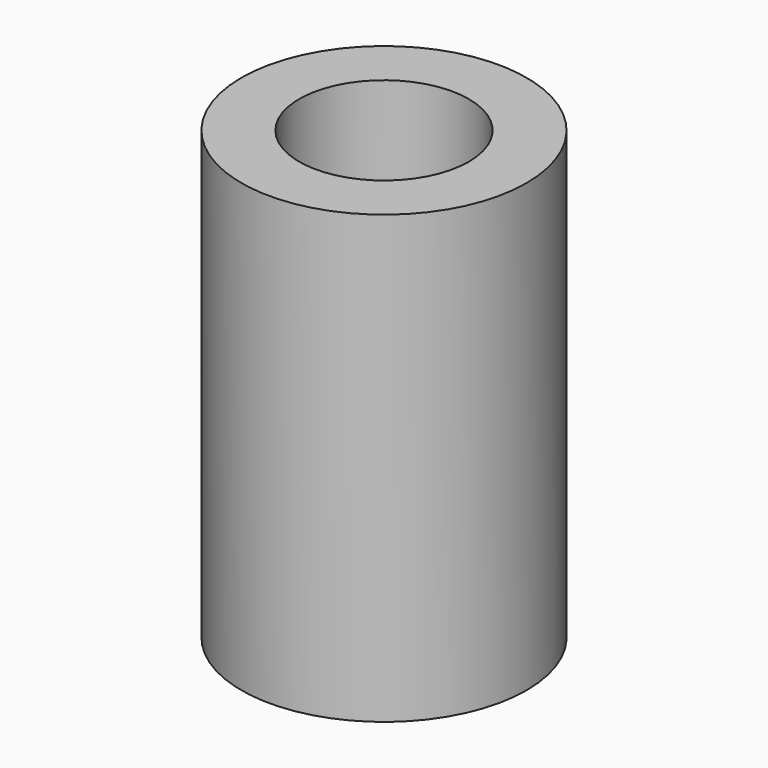
from build123d import *

# Parameters (mm, degrees)
SKETCH001_R   = 31.93
SKETCH001_R_2 = 19
PAD_DEPTH     = 100
SKETCH_R      = 31.93
PAD001_DEPTH  = 5


with BuildPart() as part:
    # Sketch001 → Pad (new body)
    with BuildSketch(Plane.XY):
        Circle(SKETCH001_R)
        Circle(SKETCH001_R_2, mode=Mode.SUBTRACT)
    extrude(amount=PAD_DEPTH)

    # Sketch → Pad001 (join)
    with BuildSketch(Plane.XY):
        Circle(SKETCH_R)
    extrude(amount=PAD001_DEPTH)


solid = part.part
